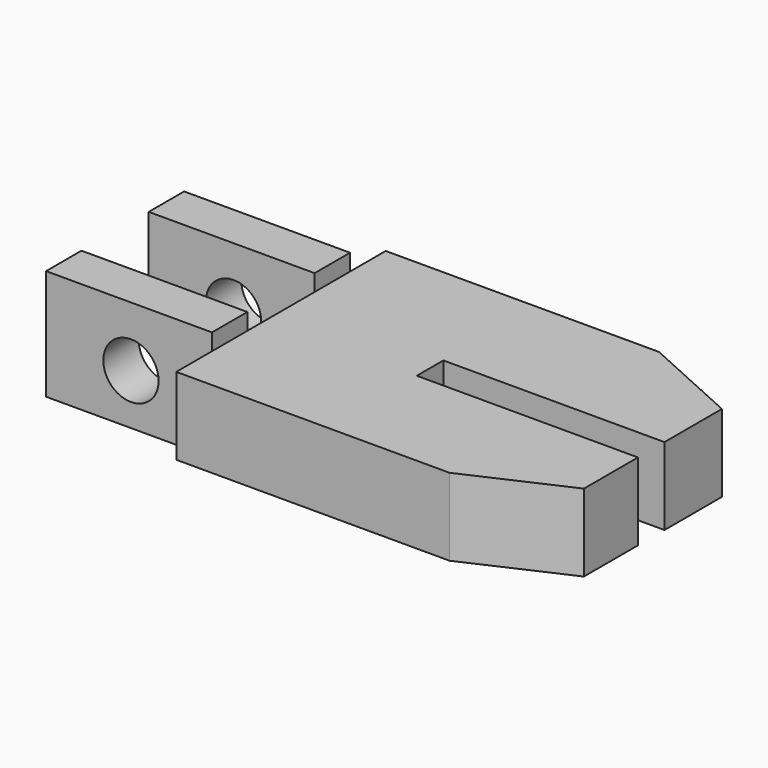
from build123d import *

# Parameters (mm, degrees)
F1_DEPTH = 25.4
F3_D     = 12.7
F4_W     = 94.8301074147
F4_H     = 68.1190363509
F5_DEPTH = 3.81
F6_W     = 94.6228546143
F6_H     = 76.2625485659
F7_DEPTH = 3.81


with BuildPart() as f1:
    # F0 (on Top) → F1 (new body)
    with BuildSketch(Plane.XY):
        Polygon((69.3474411964, -42.1580038965), (92.0092580879, -31.9088696007), (92.0092580879, -16.3924994838), (41.2310734391, -16.3924994838), (41.2310734391, -12.5824994838), (41.2310734391, -8.7724994838), (92.0092580879, -8.7724994838), (92.0092580879, 7.7151303993), (69.3474411964, 17.9642646951), (6.6018956661, 17.9642646951), (6.6018956661, 7.7151303993), (-31.4981043339, 7.7151303993), (-31.4981043339, -2.4448696007), (-12.4481043339, -2.4448696007), (6.6018956661, -2.4448696007), (6.6018956661, -21.7488696007), (-31.4981043339, -21.7488696007), (-31.4981043339, -31.9088696007), (6.6018956661, -31.9088696007), (6.6018956661, -42.1580038965), align=None)
    extrude(amount=F1_DEPTH)

    # F3 (through all)
    with Locations(Plane(origin=(0, 7.7151303993, 0), x_dir=(-1, 0, 0), z_dir=(0, 1, 0))):
        with Locations((12.0056932792, 11.6236191243)):
            Hole(F3_D / 2)

    # F4 (on face) → F5 (cut)
    with BuildSketch(Plane.XY.offset(25.4)):
        with Locations((54.0169493735, -16.0952534803)):
            Rectangle(F4_W, F4_H)
    extrude(amount=-F5_DEPTH, mode=Mode.SUBTRACT)

    # F6 (on face) → F7 (cut)
    with BuildSketch(Plane(origin=(0, 0, 0), x_dir=(1, 0, 0), z_dir=(0, 0, -1))):
        with Locations((53.9133229733, 4.0267296135)):
            Rectangle(F6_W, F6_H)
    extrude(amount=-F7_DEPTH, mode=Mode.SUBTRACT)


solid = f1.part
